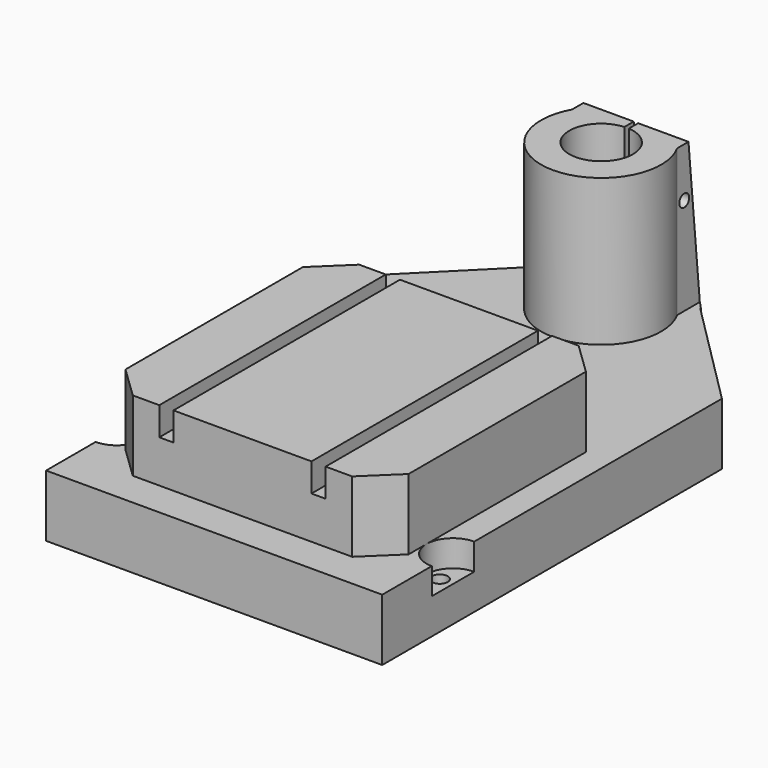
from build123d import *

# Parameters (mm, degrees)
F0_R      = 4.5
F1_DEPTH  = 35
F2_DEPTH  = 24
F3_DEPTH  = 15
F5_DEPTH  = 35
F7_DEPTH  = 83
F9_DEPTH  = 125
F10_R     = 18
F11_DEPTH = 222
F12_W     = 2.5
F12_H     = 32
F13_DEPTH = 40
F8_R      = 3.5
F14_DEPTH = 94.3
F15_W     = 78
F15_H     = 160
F16_DEPTH = 16
F17_DEPTH = 24


with BuildPart() as f1:
    # F0 (on Top) → F1 (new body)
    with BuildSketch(Plane.XY):
        with BuildLine():
            Line((35, 160), (-35, 160))
            Line((-35, 160), (-95, 100))
            Line((-95, 100), (-95, -75))
            ThreePointArc((-95, -75), (-84.3933982822, -79.3933982822), (-80, -90))
            Line((-80, -90), (-80, 40))
            Line((-80, 40), (80, 40))
            Line((80, 40), (80, -90))
            ThreePointArc((80, -90), (84.3933982822, -79.3933982822), (95, -75))
            Line((95, -75), (95, 100))
            Line((95, 100), (35, 160))
        make_face()
        Polygon((-80, 40), (-80, -90), (-80, -120), (80, -120), (80, -90), (80, 40), align=None)
        with BuildLine():
            ThreePointArc((-80, -90), (-84.3933982822, -100.6066017178), (-95, -105))
            Line((-95, -105), (-95, -140))
            Line((-95, -140), (95, -140))
            Line((95, -140), (95, -105))
            ThreePointArc((95, -105), (84.3933982822, -100.6066017178), (80, -90))
            Line((80, -90), (80, -120))
            Line((80, -120), (-80, -120))
            Line((-80, -120), (-80, -90))
        make_face()
        with BuildLine():
            Line((95, -105), (95, -75))
            ThreePointArc((95, -75), (84.3933982822, -79.3933982822), (80, -90))
            ThreePointArc((80, -90), (84.3933982822, -100.6066017178), (95, -105))
        make_face()
        with Locations((87.5, -90)):
            Circle(F0_R, mode=Mode.SUBTRACT)
        with BuildLine():
            ThreePointArc((-80, -90), (-84.3933982822, -79.3933982822), (-95, -75))
            Line((-95, -75), (-95, -105))
            ThreePointArc((-95, -105), (-84.3933982822, -100.6066017178), (-80, -90))
        make_face()
        with Locations((-87.5, -90)):
            Circle(F0_R, mode=Mode.SUBTRACT)
    extrude(amount=-F1_DEPTH)

    # F0 (on Top) → F2 (join)
    with BuildSketch(Plane.XY):
        Polygon((-80, 40), (-80, -90), (-80, -120), (80, -120), (80, -90), (80, 40), align=None)
    extrude(amount=F2_DEPTH)

    # F0 (on Top) → F3 (cut)
    with BuildSketch(Plane.XY):
        with BuildLine():
            ThreePointArc((-80, -90), (-84.3933982822, -79.3933982822), (-95, -75))
            Line((-95, -75), (-95, -105))
            ThreePointArc((-95, -105), (-84.3933982822, -100.6066017178), (-80, -90))
        make_face()
        with Locations((-87.5, -90)):
            Circle(F0_R, mode=Mode.SUBTRACT)
        with BuildLine():
            Line((95, -105), (95, -75))
            ThreePointArc((95, -75), (84.3933982822, -79.3933982822), (80, -90))
            ThreePointArc((80, -90), (84.3933982822, -100.6066017178), (95, -105))
        make_face()
        with Locations((87.5, -90)):
            Circle(F0_R, mode=Mode.SUBTRACT)
    extrude(amount=-F3_DEPTH, mode=Mode.SUBTRACT)

    # F4 (on face) → F5 (join)
    with BuildSketch(Plane.XY):
        with BuildLine():
            Line((-35, 160), (35, 160))
            ThreePointArc((35, 160), (0, 177.7706570637), (-35, 160))
        make_face()
    extrude(amount=-F5_DEPTH)

    # F6 (on face) → F7 (join)
    with BuildSketch(Plane.XY):
        with BuildLine():
            Line((29.6988346186, 166), (-29.6988346186, 166))
            Line((-29.6988346186, 166), (-29.6988346186, 150))
            ThreePointArc((-29.6988346186, 150), (0, 99.4476822681), (29.6988346186, 150))
            Line((29.6988346186, 150), (29.6988346186, 166))
        make_face()
    extrude(amount=F7_DEPTH)

    # F8 (on face) → F9 (cut)
    with BuildSketch(Plane.YZ.offset(29.6988346186)):
        Polygon((158, 83), (166, 0), (166, 83), align=None)
    extrude(amount=-F9_DEPTH, mode=Mode.SUBTRACT)

    # F10 (on face) → F11 (cut)
    with BuildSketch(Plane.XY.offset(83)):
        with Locations((0, 133.4476822681)):
            Circle(F10_R)
    extrude(amount=-F11_DEPTH, mode=Mode.SUBTRACT)

    # F12 (on face) → F13 (cut)
    with BuildSketch(Plane.XY.offset(83)):
        with Locations((0, 174)):
            Rectangle(F12_W, F12_H)
        with BuildLine():
            Line((1.25, 158), (-1.25, 158))
            Line((-1.25, 158), (-1.25, 151.404227036))
            ThreePointArc((-1.25, 151.404227036), (0, 151.4476822681), (1.25, 151.404227036))
            Line((1.25, 151.404227036), (1.25, 158))
        make_face()
        with BuildLine():
            ThreePointArc((1.25, 151.404227036), (0, 151.4476822681), (-1.25, 151.404227036))
            Line((-1.25, 151.404227036), (-1.25, 140))
            Line((-1.25, 140), (1.25, 140))
            Line((1.25, 140), (1.25, 151.404227036))
        make_face()
    extrude(amount=-F13_DEPTH, mode=Mode.SUBTRACT)

    # F8 (on face) → F14 (cut)
    with BuildSketch(Plane.YZ.offset(29.6988346186)):
        with Locations((155, 55)):
            Circle(F8_R)
    extrude(amount=-F14_DEPTH, mode=Mode.SUBTRACT)

    # F15 (on face) → F16 (join)
    with BuildSketch(Plane.XY.offset(24)):
        Polygon((62, 40), (47, 40), (47, -120), (62, -120), (80, -102.6506484271), (80, 22.6506484271), align=None)
        with Locations((0, -40)):
            Rectangle(F15_W, F15_H)
        Polygon((-47, -120), (-47, 40), (-62, 40), (-80, 22.6506484271), (-80, -102.6506484271), (-62, -120), align=None)
    extrude(amount=F16_DEPTH)

    # F17 (cut): faces of the model
    f17_faces = [f1.faces().sort_by_distance(p)[0] for p in [
        (-74, 34.216882809, 24),
        (-74, -114.216882809, 24),
        (74, -114.216882809, 24),
        (74, 34.216882809, 24),
    ]]
    extrude(f17_faces, amount=-F17_DEPTH, mode=Mode.SUBTRACT)


solid = f1.part
